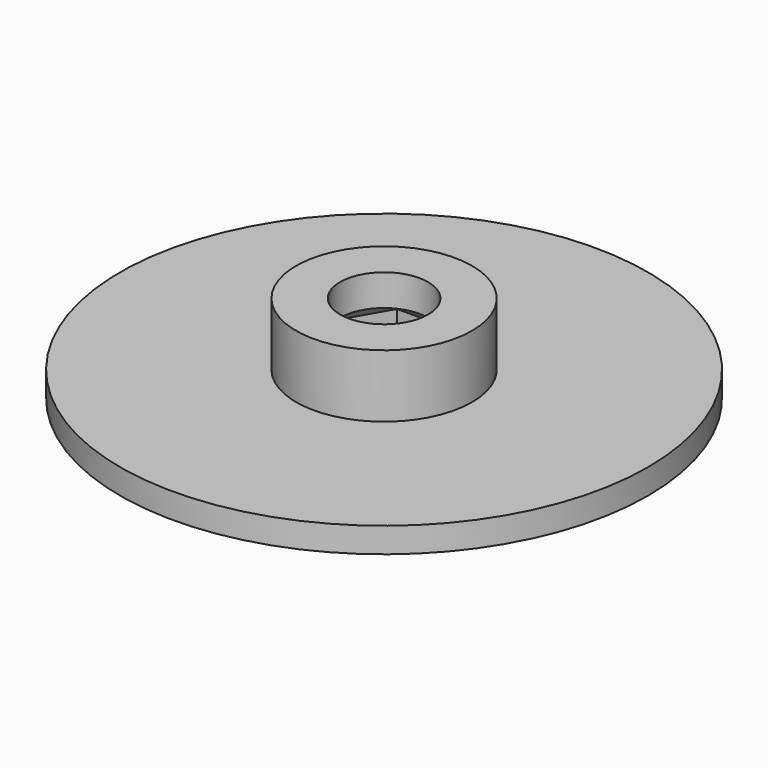
from build123d import *

# Parameters (mm, degrees)
SKETCH_R     = 21
PAD_DEPTH    = 2
SKETCH001_R  = 7
PAD001_DEPTH = 7
SKETCH002_R  = 3.5
HOLE_DEPTH   = 7.001
POCKET_DEPTH = 4.5
CHAMFER_SIZE = 1


with BuildPart() as part:
    # Sketch → Pad (new body)
    with BuildSketch(Plane.XY):
        Circle(SKETCH_R)
    extrude(amount=PAD_DEPTH)

    # Sketch001 → Pad001 (join)
    with BuildSketch(Plane.XY):
        Circle(SKETCH001_R)
    extrude(amount=PAD001_DEPTH)

    # Sketch002 → Hole (cut, through all)
    with BuildSketch(Plane.XY):
        Circle(SKETCH002_R)
    extrude(amount=HOLE_DEPTH, mode=Mode.SUBTRACT)

    # Sketch003 → Pocket (cut)
    with BuildSketch(Plane.XY):
        Polygon((2.670245, -4.625), (5.34049, 0), (2.670245, 4.625), (-2.670245, 4.625), (-5.34049, 0), (-2.670245, -4.625), align=None)
    extrude(amount=POCKET_DEPTH, mode=Mode.SUBTRACT)

    # Chamfer
    chamfer_edges = [part.edges().sort_by_distance(p)[0] for p in [
        (-4.005367, -2.3125, 4.5),
        (0, -4.625, 4.5),
        (4.005367, -2.3125, 4.5),
        (4.005367, 2.3125, 4.5),
        (0, 4.625, 4.5),
        (-4.005367, 2.3125, 4.5),
    ]]
    chamfer(chamfer_edges, length=CHAMFER_SIZE)


solid = part.part
